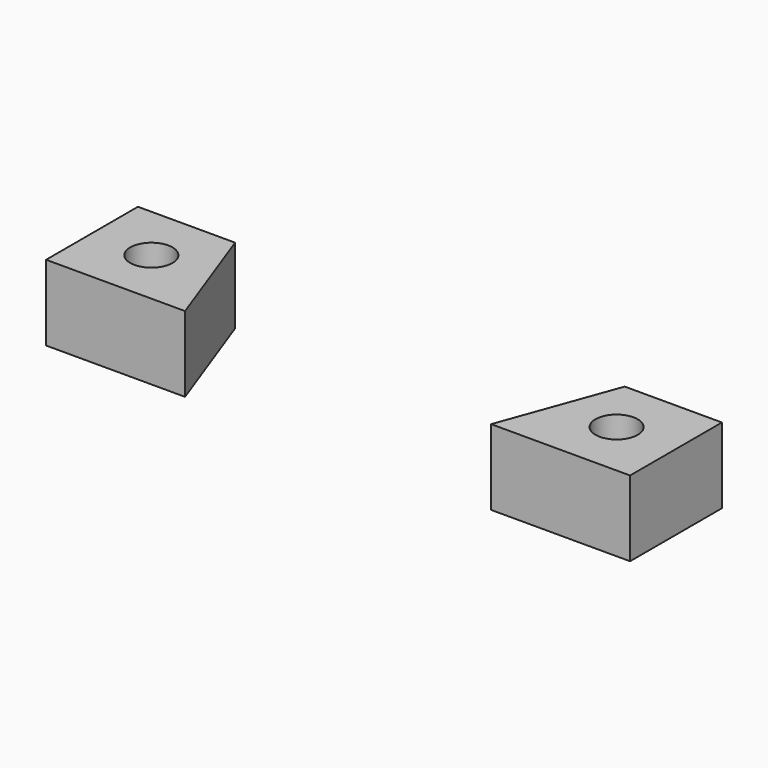
from build123d import *

# Parameters (mm, degrees)
CYLINDER004_R     = 7
CYLINDER004_DEPTH = 150
CYLINDER003_R     = 11
CYLINDER003_DEPTH = 31
PAD011_DEPTH      = 25


with BuildPart() as axe:
    # Cylinder004 → Cylinder004 (new body)
    with BuildSketch(Plane.XY.offset(-50)):
        Circle(CYLINDER004_R)
    extrude(amount=CYLINDER004_DEPTH)


with BuildPart() as clone_of_ball_slider:
    # Cylinder003 → Cylinder003 (new body)
    with BuildSketch(Plane.XY):
        Circle(CYLINDER003_R)
    extrude(amount=CYLINDER003_DEPTH)

    # Fusion003: union axe
    add(axe.part)


with BuildPart() as clone_of_ball_slider_1:
    # Clone017 placement: moved
    add(clone_of_ball_slider.part.moved(Location((-77, -3, 13))))


with BuildPart() as part_mirroring002:
    # Part__Mirroring002: instance of Clone of ball slider
    add(clone_of_ball_slider_1.part.mirror(Plane(origin=(0, 0, 0), x_dir=(0, -1, 0), z_dir=(1, 0, 0))))


with BuildPart() as ball_sliders:
    # Fusion004 base: copy of Clone of ball slider
    add(clone_of_ball_slider_1.part)

    # Fusion004: union Part__Mirroring002
    add(part_mirroring002.part)


with BuildPart() as cut006008:
    # Sketch010 → Pad011 (new body)
    with BuildSketch(Plane.XY):
        Polygon((-96.65489, 16), (-64.485759, 16), (-50.65489, -22), (-96.65489, -22), align=None)
        Polygon((64.485759, 16), (96.65489, 16), (96.65489, -22), (50.65489, -22), align=None)
    extrude(amount=PAD011_DEPTH)


with BuildPart() as cut006008_1:
    # Clone014 placement: moved
    add(cut006008.part.moved(Location((0, 0, 32))))

    # Cut006008: cut ball_sliders
    add(ball_sliders.part, mode=Mode.SUBTRACT)


solid = cut006008_1.part
